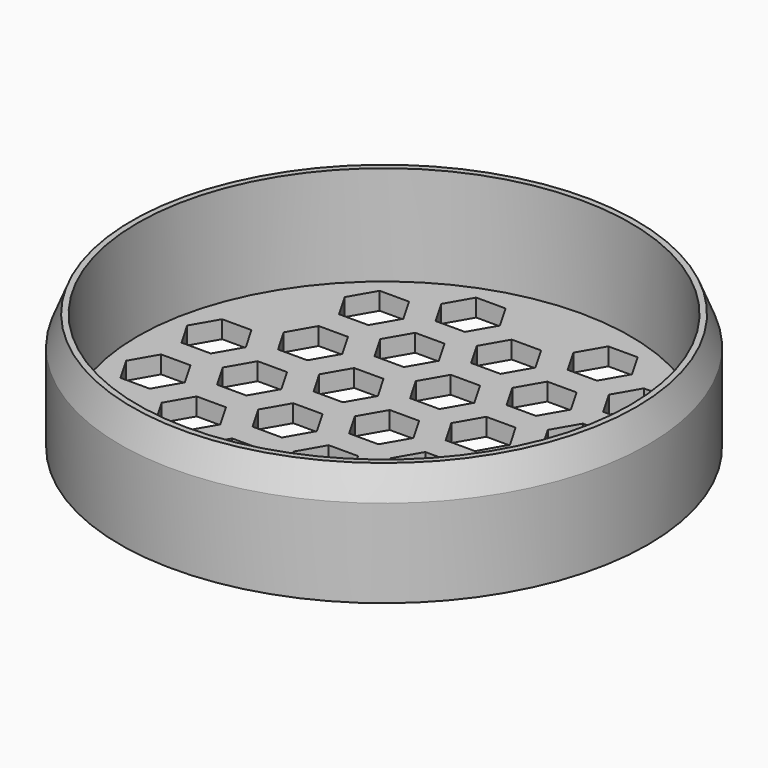
from build123d import *

# Parameters (mm, degrees)
SKETCH_R              = 45
PAD_DEPTH             = 20
SKETCH001_R           = 42
POCKET_DEPTH          = 17
POCKET001_DEPTH       = 5
POLARPATTERN_COUNT    = 6
POCKET002_DEPTH       = 5
POLARPATTERN001_COUNT = 6
POCKET003_DEPTH       = 5
POLARPATTERN002_COUNT = 6
POCKET004_DEPTH       = 5
POLARPATTERN003_COUNT = 6
POCKET005_DEPTH       = 5
POLARPATTERN004_COUNT = 6
POCKET006_DEPTH       = 5
CHAMFER_SIZE2         = 2
CHAMFER_SIZE          = 5


with BuildPart() as part:
    # Sketch → Pad (new body)
    with BuildSketch(Plane.XY):
        Circle(SKETCH_R)
    extrude(amount=PAD_DEPTH)

    # Sketch001 (on Face3 of Pad) → Pocket (cut)
    with BuildSketch(Plane.XY.offset(20)):
        Circle(SKETCH001_R)
    extrude(amount=-POCKET_DEPTH, mode=Mode.SUBTRACT)

    # Sketch003 (on Face5 of Pocket) → Pocket001 (cut)
    with BuildSketch(Plane.XY.offset(3)):
        Polygon((-6.25833, 6.5), (-8.75833, 10.830127), (-13.75833, 10.830127), (-16.25833, 6.5), (-13.75833, 2.169873), (-8.75833, 2.169873), align=None)
    pocket001 = extrude(amount=-POCKET001_DEPTH, mode=Mode.SUBTRACT)

    # PolarPattern: Pocket001 ×6 about axis
    polarpattern_axis = Axis((0, 0, 3), (0, 0, 1))
    for i in range(1, POLARPATTERN_COUNT):
        add(pocket001.rotate(polarpattern_axis, i * 360 / POLARPATTERN_COUNT), mode=Mode.SUBTRACT)

    # Sketch004 (on Face41 of PolarPattern) → Pocket002 (cut)
    with BuildSketch(Plane.XY.offset(3)):
        Polygon((13.75833, -23.830127), (16.25833, -19.5), (13.75833, -15.169873), (8.75833, -15.169873), (6.25833, -19.5), (8.75833, -23.830127), align=None)
    pocket002 = extrude(amount=-POCKET002_DEPTH, mode=Mode.SUBTRACT)

    # PolarPattern001: Pocket002 ×6 about axis
    polarpattern001_axis = Axis((0, 0, 3), (0, 0, 1))
    for i in range(1, POLARPATTERN001_COUNT):
        add(pocket002.rotate(polarpattern001_axis, i * 360 / POLARPATTERN001_COUNT), mode=Mode.SUBTRACT)

    # Sketch005 (on Face77 of PolarPattern001) → Pocket003 (cut)
    with BuildSketch(Plane.XY.offset(3)):
        Polygon((2.5, -30.330127), (5, -26), (2.5, -21.669873), (-2.5, -21.669873), (-5, -26), (-2.5, -30.330127), align=None)
    pocket003 = extrude(amount=-POCKET003_DEPTH, mode=Mode.SUBTRACT)

    # PolarPattern002: Pocket003 ×6 about axis
    polarpattern002_axis = Axis((0, 0, 3), (0, 0, 1))
    for i in range(1, POLARPATTERN002_COUNT):
        add(pocket003.rotate(polarpattern002_axis, i * 360 / POLARPATTERN002_COUNT), mode=Mode.SUBTRACT)

    # Sketch006 (on Face113 of PolarPattern002) → Pocket004 (cut)
    with BuildSketch(Plane.XY.offset(3)):
        Polygon((-8.75833, -36.830127), (-6.25833, -32.5), (-8.75833, -28.169873), (-13.75833, -28.169873), (-16.25833, -32.5), (-13.75833, -36.830127), align=None)
    pocket004 = extrude(amount=-POCKET004_DEPTH, mode=Mode.SUBTRACT)

    # PolarPattern003: Pocket004 ×6 about axis
    polarpattern003_axis = Axis((0, 0, 3), (0, 0, 1))
    for i in range(1, POLARPATTERN003_COUNT):
        add(pocket004.rotate(polarpattern003_axis, i * 360 / POLARPATTERN003_COUNT), mode=Mode.SUBTRACT)

    # Sketch007 (on Face149 of PolarPattern003) → Pocket005 (cut)
    with BuildSketch(Plane.XY.offset(3)):
        Polygon((13.75833, -36.830127), (16.25833, -32.5), (13.75833, -28.169873), (8.75833, -28.169873), (6.25833, -32.5), (8.75833, -36.830127), align=None)
    pocket005 = extrude(amount=-POCKET005_DEPTH, mode=Mode.SUBTRACT)

    # PolarPattern004: Pocket005 ×6 about axis
    polarpattern004_axis = Axis((0, 0, 3), (0, 0, 1))
    for i in range(1, POLARPATTERN004_COUNT):
        add(pocket005.rotate(polarpattern004_axis, i * 360 / POLARPATTERN004_COUNT), mode=Mode.SUBTRACT)

    # Sketch008 (on Face185 of PolarPattern004) → Pocket006 (cut)
    with BuildSketch(Plane.XY.offset(3)):
        Polygon((2.5, -4.330127), (5, 0), (2.5, 4.330127), (-2.5, 4.330127), (-5, 0), (-2.5, -4.330127), align=None)
    extrude(amount=-POCKET006_DEPTH, mode=Mode.SUBTRACT)

    # Chamfer
    chamfer_edges = [part.edges().sort_by_distance(p)[0] for p in [
        (-45, 0, 20),
    ]]
    chamfer_side = part.faces().sort_by_distance((-45, 0, 10))[0]
    chamfer(chamfer_edges, length=CHAMFER_SIZE, length2=CHAMFER_SIZE2, reference=chamfer_side)


solid = part.part
